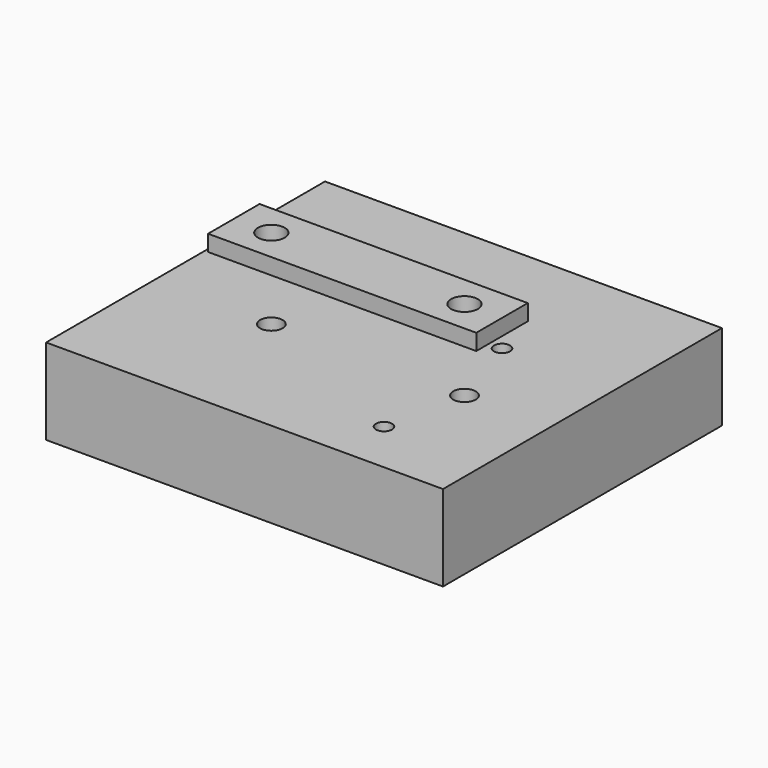
from build123d import *

# Parameters (mm, degrees)
F0_W     = 74
F0_H     = 65
F1_DEPTH = 16
F3_D     = 3
F3_DEPTH = 8
F3_TIP   = 0.9012909285
F4_D     = 4.2
F4_DEPTH = 10
F4_TIP   = 1.2618073
F7_W     = 50
F7_H     = 12
F8_DEPTH = 3
F9_D     = 5
F9_DEPTH = 8
F9_TIP   = 1.5021515476


with BuildPart() as f1:
    # F0 (on Top) → F1 (new body)
    with BuildSketch(Plane.XY):
        Rectangle(F0_W, F0_H)
    extrude(amount=-F1_DEPTH)

    # F3
    with Locations(Plane.XY):
        with Locations((18, -22.5), (16, 7.5)):
            Hole(F3_D / 2, depth=F3_DEPTH)
            with Locations((0, 0, -(F3_DEPTH + F3_TIP / 2))):  # 118° drill point
                Cone(0, F3_D / 2, F3_TIP, mode=Mode.SUBTRACT)

    # F4
    with Locations(Plane.XY):
        with Locations((21, -7.5), (-15, -7.5)):
            Hole(F4_D / 2, depth=F4_DEPTH)
            with Locations((0, 0, -(F4_DEPTH + F4_TIP / 2))):  # 118° drill point
                Cone(0, F4_D / 2, F4_TIP, mode=Mode.SUBTRACT)


with BuildPart() as f8:
    # F7 (on offset) → F8 (new body)
    with BuildSketch(Plane.XY.offset(12)):
        with Locations((3, -7.5)):
            Rectangle(F7_W, F7_H)
    extrude(amount=F8_DEPTH)

    # F9
    with Locations(Plane(origin=(0, 0, 12), x_dir=(1, 0, 0), z_dir=(0, 0, -1))):
        with Locations((-15, 7.5), (21, 7.5)):
            Hole(F9_D / 2, depth=F9_DEPTH)
            with Locations((0, 0, -(F9_DEPTH + F9_TIP / 2))):  # 118° drill point
                Cone(0, F9_D / 2, F9_TIP, mode=Mode.SUBTRACT)


solid = Compound([f1.part, f8.part])
